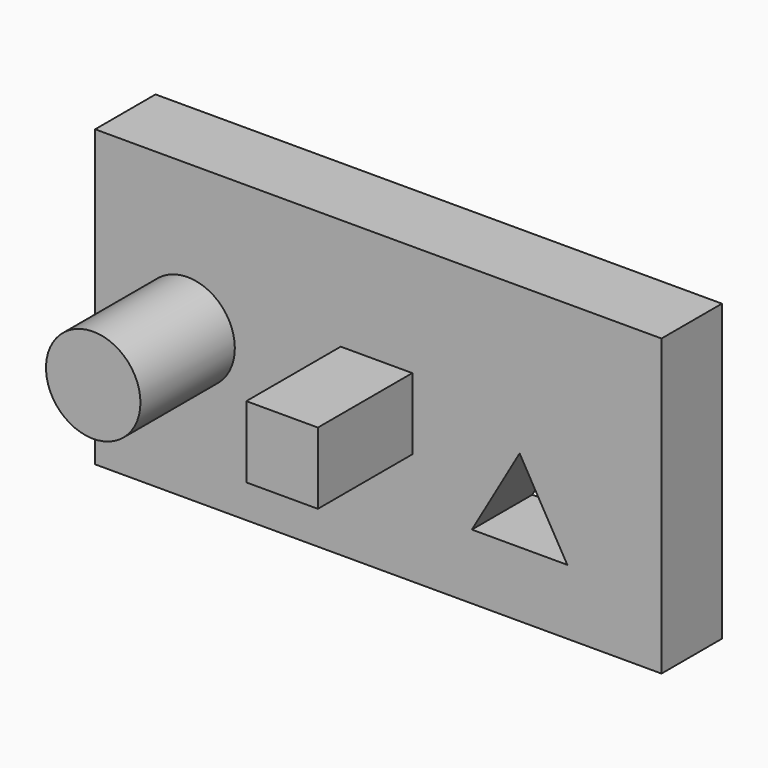
from build123d import *

# Parameters (mm, degrees)
F0_R     = 12.705854617
F1_DEPTH = 20.32
F2_DEPTH = 52.07
F3_START = 20.32
F3_DEPTH = 31.75


with BuildPart() as f1:
    # F0 (on Front) → F1 (new body)
    with BuildSketch(Plane.XZ):
        Polygon((44.9211280584, -39.6875), (44.9211280584, 0), (44.9211280584, 39.6875), (-107.4788719416, 39.6875), (-107.4788719416, -39.6875), align=None)
        Polygon((-6.0967609561, -22.1677589062), (6.738481146, 0.0635325421), (19.5737232482, -22.1677589062), align=None, mode=Mode.SUBTRACT)
        with Locations((-82.5906636285, 0.0635325421)):
            Circle(F0_R, mode=Mode.SUBTRACT)
        Polygon((-41.3936767371, 9.6899641188), (-30.4837209502, 9.6899641188), (-22.1408135838, 9.6899641188), (-22.1408135838, -9.5628990345), (-41.3936767371, -9.5628990345), align=None, mode=Mode.SUBTRACT)
    extrude(amount=F1_DEPTH)


with BuildPart() as f2:
    # F0 (on Front) → F2 (new body)
    with BuildSketch(Plane.XZ):
        with Locations((-82.5906636285, 0.0635325421)):
            Circle(F0_R)
    extrude(amount=F2_DEPTH)


with BuildPart() as f3:
    # F0 (on Front) → F3 (new body)
    with BuildSketch(Plane.XZ.offset(F3_START)):
        Polygon((-22.1408135838, 9.6899641188), (-30.4837209502, 9.6899641188), (-41.3936767371, 9.6899641188), (-41.3936767371, -9.5628990345), (-22.1408135838, -9.5628990345), align=None)
    extrude(amount=F3_DEPTH)


solid = Compound([f1.part, f2.part, f3.part])
